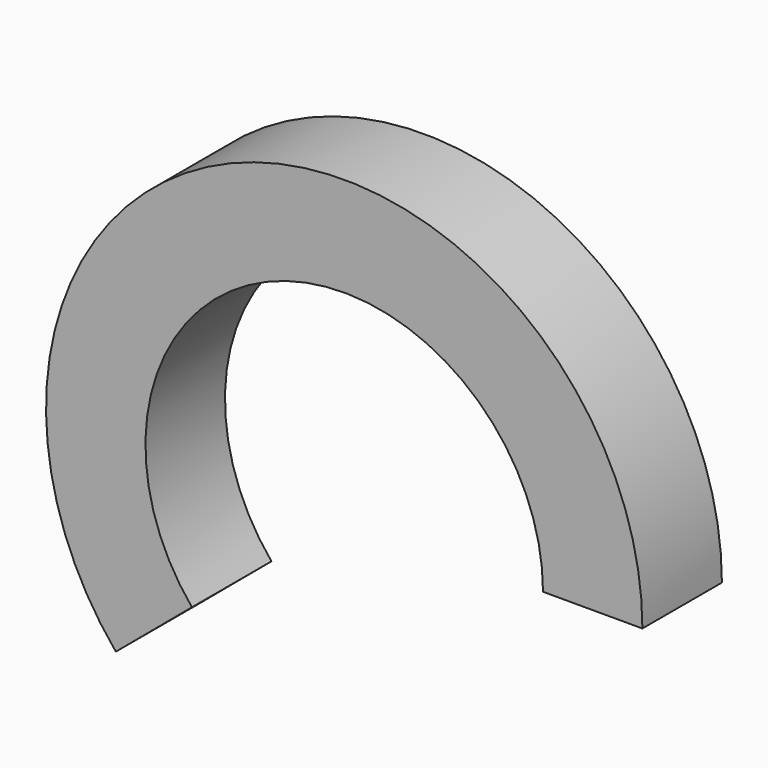
from build123d import *

# Parameters (mm, degrees)
F0_W     = 20
F0_H     = 20
F1_ANGLE = 220


with BuildPart() as f1:
    # F0 (on Top) → F1 (revolve)
    with BuildSketch(Plane.XY):
        Rectangle(F0_W, F0_H)
    revolve(axis=Axis((-50, -0.225747, 0), (0, -1, 0)), revolution_arc=F1_ANGLE)


solid = f1.part
